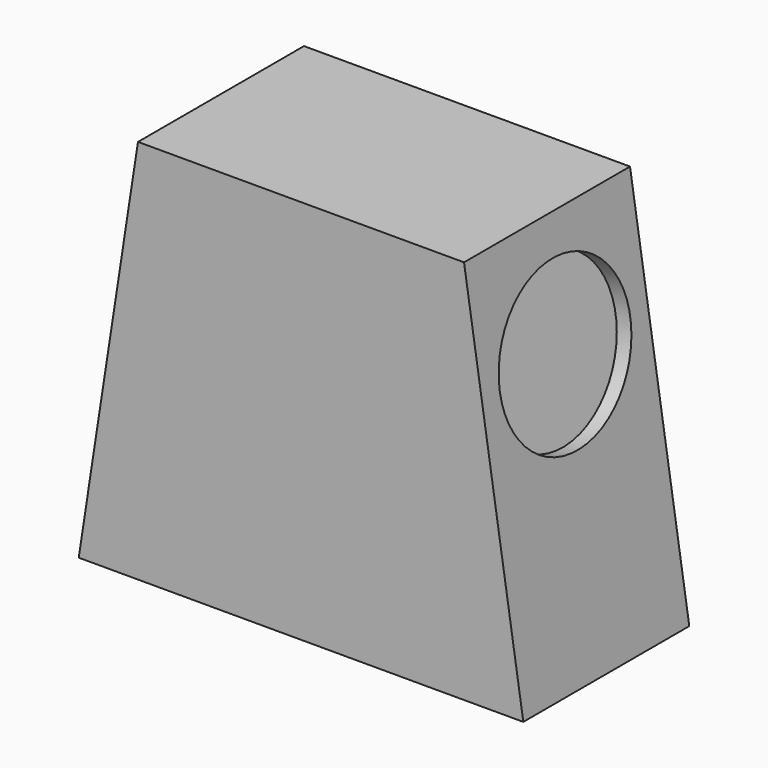
from build123d import *

# Parameters (mm, degrees)
F1_DEPTH = 3.5
F2_T     = -0.5
F4_D     = 5.5


with BuildPart() as f1:
    # F0 (on Front) → F1 (new body, symmetric)
    with BuildSketch(Plane.XZ):
        Polygon((-5.5, 13), (-7.5, 0), (7.5, 0), (5.5, 13), align=None)
    extrude(amount=F1_DEPTH, both=True)

    # F2
    f2_openings = [f1.faces().sort_by_distance(p)[0] for p in [
        (0, 0, 0),
    ]]
    offset(amount=F2_T, openings=f2_openings)

    # F4 (through all)
    with Locations(Plane(origin=(7.3265895954, 0, 1.1271676301), x_dir=(0, 1, 0), z_dir=(0.9883716977, 0, 0.1520571843))):
        with Locations((0, 8.0125175561)):
            Hole(F4_D / 2)


solid = f1.part
